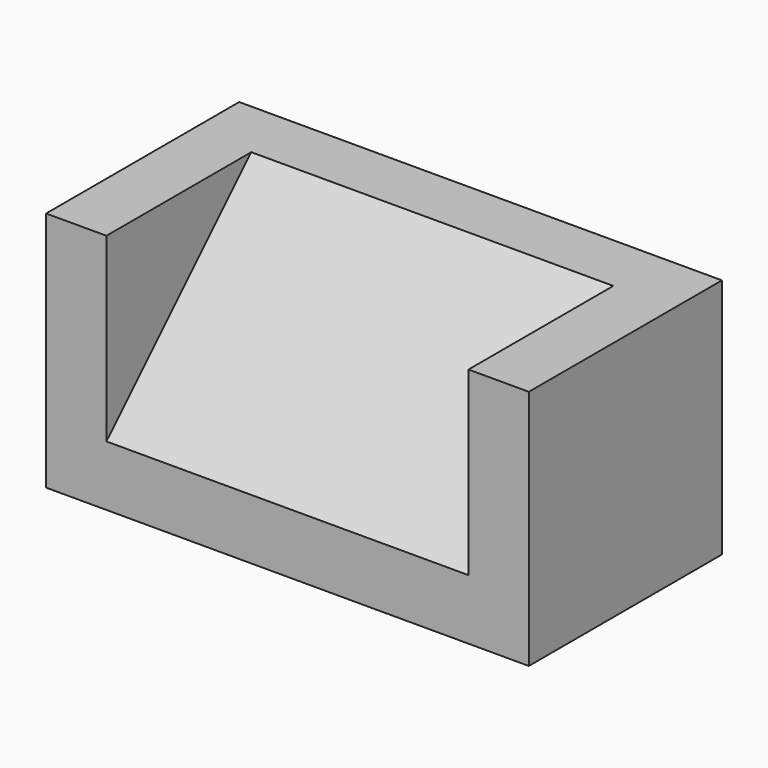
from build123d import *

# Parameters (mm, degrees)
F0_W     = 203.2
F0_H     = 101.6
F1_DEPTH = 25.4
F2_W     = 152.4
F2_H     = 76.2
F3_DEPTH = 76.2
F5_DEPTH = 152.4
F7_DEPTH = 76.2


with BuildPart() as f1:
    # F0 (on Top) → F1 (new body)
    with BuildSketch(Plane.XY):
        with Locations((25.954181, -50.8)):
            Rectangle(F0_W, F0_H)
    extrude(amount=F1_DEPTH)

    # F2 (on face) → F3 (join)
    with BuildSketch(Plane.XY.offset(25.4)):
        with Locations((25.954181, -63.5)):
            Rectangle(F2_W, F2_H)
    extrude(amount=F3_DEPTH)

    # F4 (on face) → F5 (cut, through all)
    with BuildSketch(Plane.YZ.offset(102.154181)):
        Polygon((-101.6, 101.6), (-101.6, 25.4), (-25.4, 101.6), align=None)
    extrude(amount=-F5_DEPTH, mode=Mode.SUBTRACT)

    # F6 (on face) → F7 (join)
    with BuildSketch(Plane.XY.offset(25.4)):
        Polygon((-75.645819, 0), (-75.645819, -101.6), (-50.245819, -101.6), (-50.245819, -25.4), (102.154181, -25.4), (102.154181, -101.6), (127.554181, -101.6), (127.554181, 0), align=None)
    extrude(amount=F7_DEPTH)


solid = f1.part
